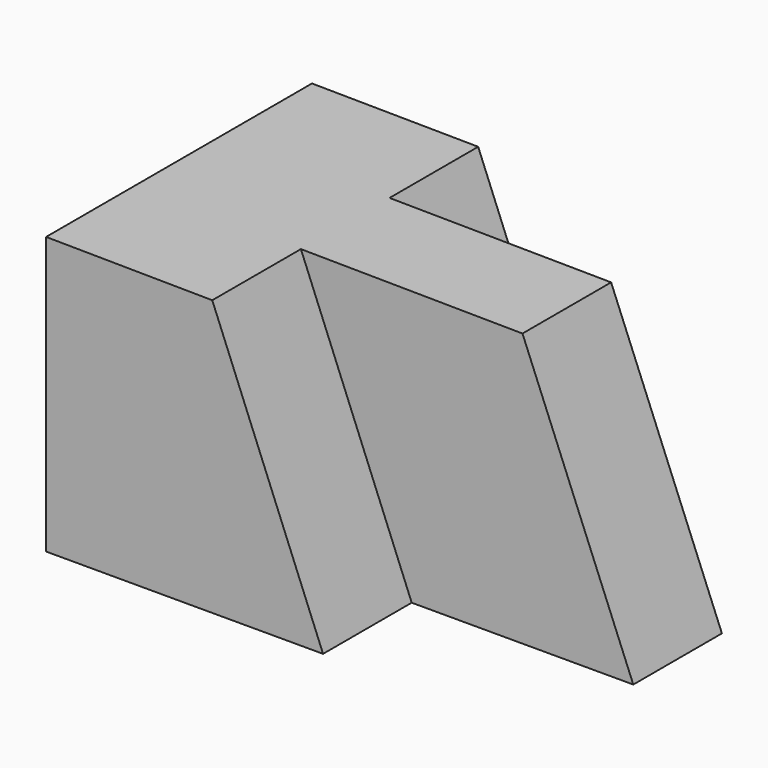
from build123d import *

# Parameters (mm, degrees)
F1_DEPTH = 38.1
F3_DEPTH = 12.7
F5_DEPTH = 12.7


with BuildPart() as f1:
    # F0 (on Front) → F1 (new body)
    with BuildSketch(Plane.XZ):
        Polygon((0, 63.183765), (-44.45, 63.639142), (-44.45, 31.889142), (12.7, 31.889142), align=None)
    extrude(amount=F1_DEPTH)

    # F2 (on face) → F3 (cut)
    with BuildSketch(Plane.XZ.offset(38.1)):
        Polygon((0, 63.183765), (-25.4, 63.443981), (-12.7, 31.889142), (12.7, 31.889142), align=None)
    extrude(amount=-F3_DEPTH, mode=Mode.SUBTRACT)

    # F4 (on face) → F5 (cut)
    with BuildSketch(Plane(origin=(0, 0, 0), x_dir=(-1, 0, 0), z_dir=(0, 1, 0))):
        Polygon((12.7, 31.889142), (25.4, 63.443981), (0, 63.183765), (-12.7, 31.889142), align=None)
    extrude(amount=-F5_DEPTH, mode=Mode.SUBTRACT)


solid = f1.part
